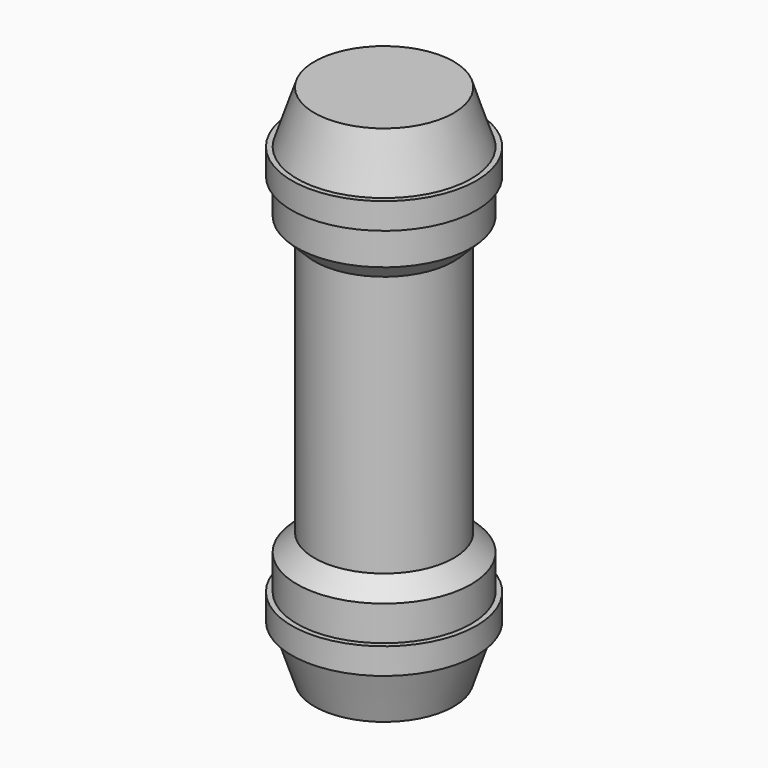
from build123d import *


with BuildPart() as part:
    # Sketch → Revolution (revolve)
    with BuildSketch(Plane.XZ):
        Polygon((0, 150), (40, 150), (50, 120), (53, 120), (53, 105), (50, 105), (50, 85), (40, 75), (40, -75), (50, -85), (50, -105), (53, -105), (53, -120), (50, -120), (40, -150), (0, -150), align=None)
    revolve(axis=Axis((0, 0, 0), (0, 0, 1)))


solid = part.part
